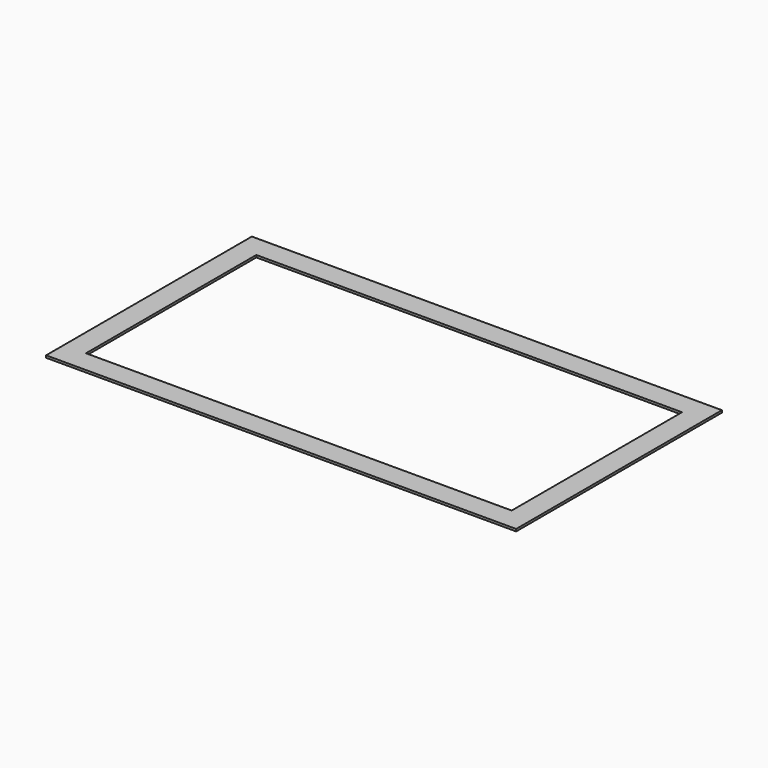
from build123d import *

# Parameters (mm, degrees)
F0_W     = 63.5
F0_H     = 63.5
F0_W_2   = 1219.2
F1_DEPTH = 6.35
F0_H_2   = 609.6
F2_DEPTH = 6.35


with BuildPart() as f1:
    # F0 (on Top) → F1 (new body)
    with BuildSketch(Plane.XY):
        with Locations((-1312.078089, 1241.172938)):
            Rectangle(F0_W, F0_H)
        with Locations((-1312.078089, 568.072938)):
            Rectangle(F0_W, F0_H)
        with Locations((-670.728089, 1241.172938)):
            Rectangle(F0_W_2, F0_H)
        with Locations((-670.728089, 568.072938)):
            Rectangle(F0_W_2, F0_H)
        Polygon((-61.128089, 1272.922938), (-61.128089, 1209.422938), (-61.128089, 599.822938), (-61.128089, 536.322938), (2.371911, 536.322938), (2.371911, 1272.922938), align=None)
    extrude(amount=F1_DEPTH)

    # F0 (on Top) → F2 (join)
    with BuildSketch(Plane.XY):
        with Locations((-1312.078089, 904.622938)):
            Rectangle(F0_W, F0_H_2)
    extrude(amount=F2_DEPTH)


solid = f1.part
